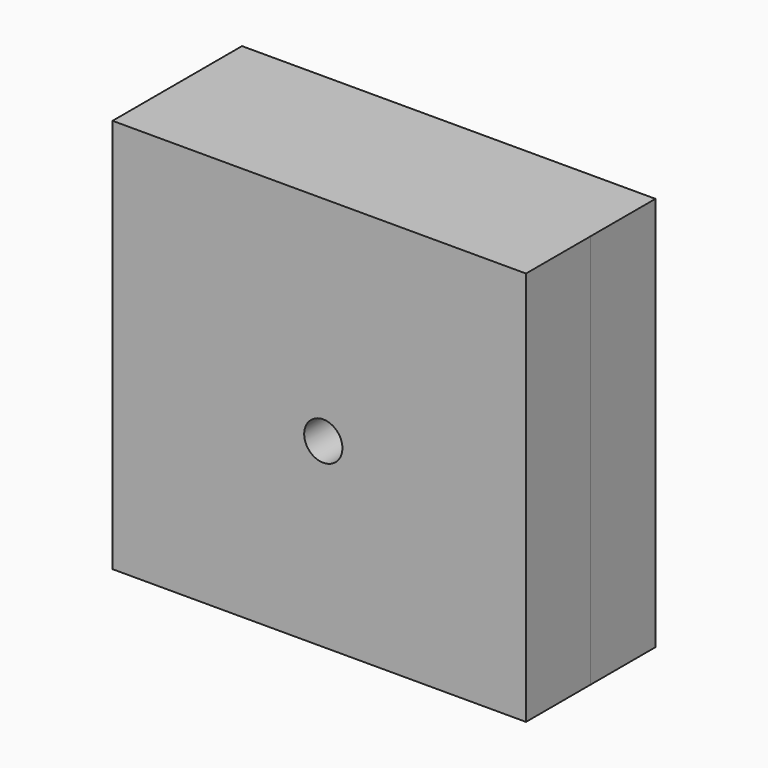
from build123d import *

# Parameters (mm, degrees)
F0_W      = 129.806437
F0_H      = 123.931572
F1_DEPTH  = 25.4
F1_FACE_W = 129.806436
F1_FACE_H = 123.931572
F2_DEPTH  = 25.4
F3_R      = 6.001171
F4_DEPTH  = 78.486


with BuildPart() as f1:
    # F0 (on Front) → F1 (new body)
    with BuildSketch(Plane.XZ):
        with Locations((-1.258898, 5.035594)):
            Rectangle(F0_W, F0_H)
    extrude(amount=F1_DEPTH)

    # F1_face (on face) → F2 (join)
    with BuildSketch(Plane(origin=(-1.258899, -25.4, 5.035594), x_dir=(1, 0, 0), z_dir=(0, -1, 0))):
        Rectangle(F1_FACE_W, F1_FACE_H)
    extrude(amount=F2_DEPTH)

    # F3 (on face) → F4 (cut)
    with BuildSketch(Plane(origin=(0, 0, 0), x_dir=(-1, 0, 0), z_dir=(0, 1, 0))):
        Circle(F3_R)
    extrude(amount=-F4_DEPTH, mode=Mode.SUBTRACT)


solid = f1.part
